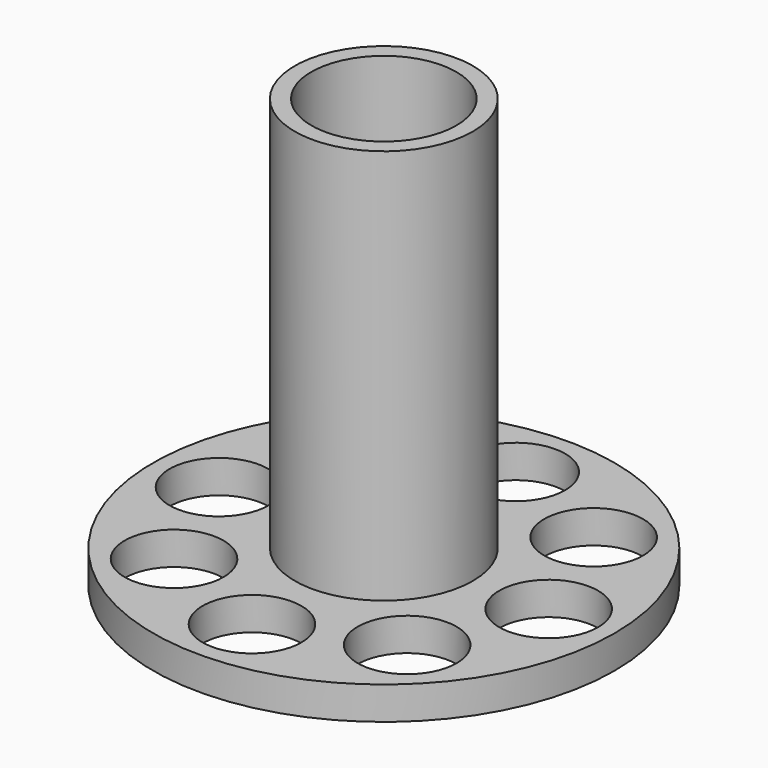
from build123d import *

# Parameters (mm, degrees)
F0_R     = 35
F0_R_2   = 7.5
F0_R_3   = 13.5
F0_R_4   = 11
F1_DEPTH = 5
F2_DEPTH = 60


with BuildPart() as f1:
    # F0 (on Top) → F1 (new body)
    with BuildSketch(Plane.XY):
        Circle(F0_R)
        with Locations((-17.67767, -17.67767)):
            Circle(F0_R_2, mode=Mode.SUBTRACT)
        with Locations((0, -25)):
            Circle(F0_R_2, mode=Mode.SUBTRACT)
        with Locations((17.67767, -17.67767)):
            Circle(F0_R_2, mode=Mode.SUBTRACT)
        with Locations((-25, 0)):
            Circle(F0_R_2, mode=Mode.SUBTRACT)
        with Locations((-17.67767, 17.67767)):
            Circle(F0_R_2, mode=Mode.SUBTRACT)
        Circle(F0_R_3, mode=Mode.SUBTRACT)
        with Locations((25, 0)):
            Circle(F0_R_2, mode=Mode.SUBTRACT)
        with Locations((0, 25)):
            Circle(F0_R_2, mode=Mode.SUBTRACT)
        with Locations((17.67767, 17.67767)):
            Circle(F0_R_2, mode=Mode.SUBTRACT)
        Circle(F0_R_3)
        Circle(F0_R_4, mode=Mode.SUBTRACT)
        Circle(F0_R_4)
    extrude(amount=-F1_DEPTH)

    # F0 (on Top) → F2 (join)
    with BuildSketch(Plane.XY):
        Circle(F0_R_3)
        Circle(F0_R_4, mode=Mode.SUBTRACT)
    extrude(amount=F2_DEPTH)


solid = f1.part
